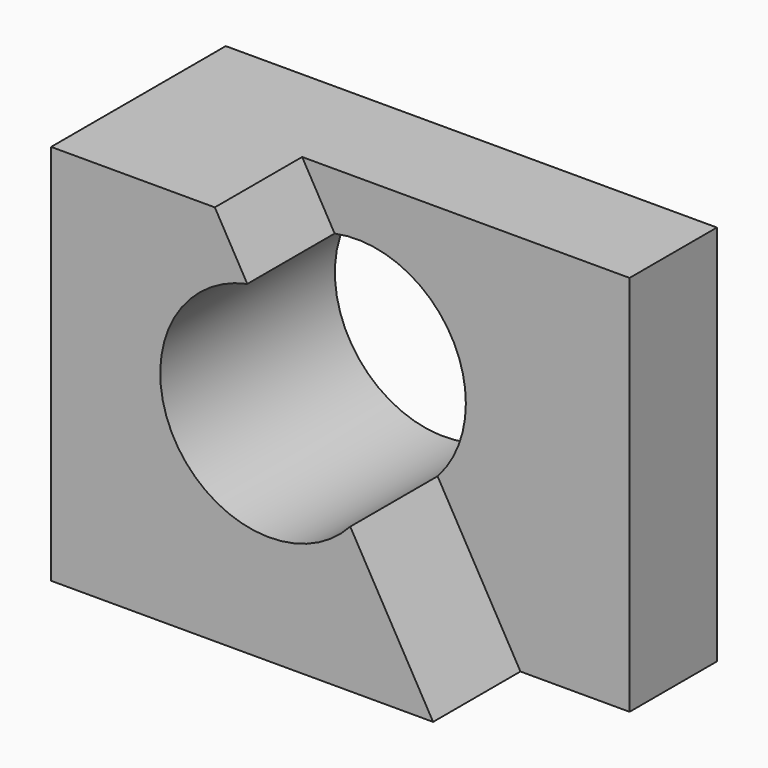
from build123d import *

# Parameters (mm, degrees)
F0_W     = 57.15
F0_H     = 44.45
F1_DEPTH = 25.4
F2_R     = 12.7
F3_DEPTH = 25.401
F5_DEPTH = 12.7


with BuildPart() as f1:
    # F0 (on Front) → F1 (new body)
    with BuildSketch(Plane.XZ):
        with Locations((-36.1058493774, 22.225)):
            Rectangle(F0_W, F0_H)
    extrude(amount=F1_DEPTH)

    # F2 (on face) → F3 (cut, through all)
    with BuildSketch(Plane.XZ.offset(25.4)):
        with Locations((-39.2808493774, 25.4)):
            Circle(F2_R)
    extrude(amount=-F3_DEPTH, mode=Mode.SUBTRACT)

    # F4 (on face) → F5 (cut)
    with BuildSketch(Plane.XZ.offset(25.4)):
        with BuildLine():
            ThreePointArc((-26.5808493774, 25.4), (-31.2609859412, 35.2474255755), (-41.8519974821, 37.8370091832))
            Line((-41.8519974821, 37.8370091832), (-29.8712397342, 16.8706831245))
            ThreePointArc((-29.8712397342, 16.8706831245), (-27.4319666776, 20.8290068075), (-26.5808493774, 25.4))
        make_face()
        with BuildLine():
            Line((-7.5308493774, 44.45), (-45.6308493774, 44.45))
            Line((-45.6308493774, 44.45), (-41.8519974821, 37.8370091832))
            ThreePointArc((-41.8519974821, 37.8370091832), (-31.2609859412, 35.2474255755), (-26.5808493774, 25.4))
            ThreePointArc((-26.5808493774, 25.4), (-27.4319666776, 20.8290068075), (-29.8712397342, 16.8706831245))
            Line((-29.8712397342, 16.8706831245), (-20.2308493774, 0))
            Line((-20.2308493774, 0), (-7.5308493774, 0))
            Line((-7.5308493774, 0), (-7.5308493774, 44.45))
        make_face()
    extrude(amount=-F5_DEPTH, mode=Mode.SUBTRACT)


solid = f1.part
